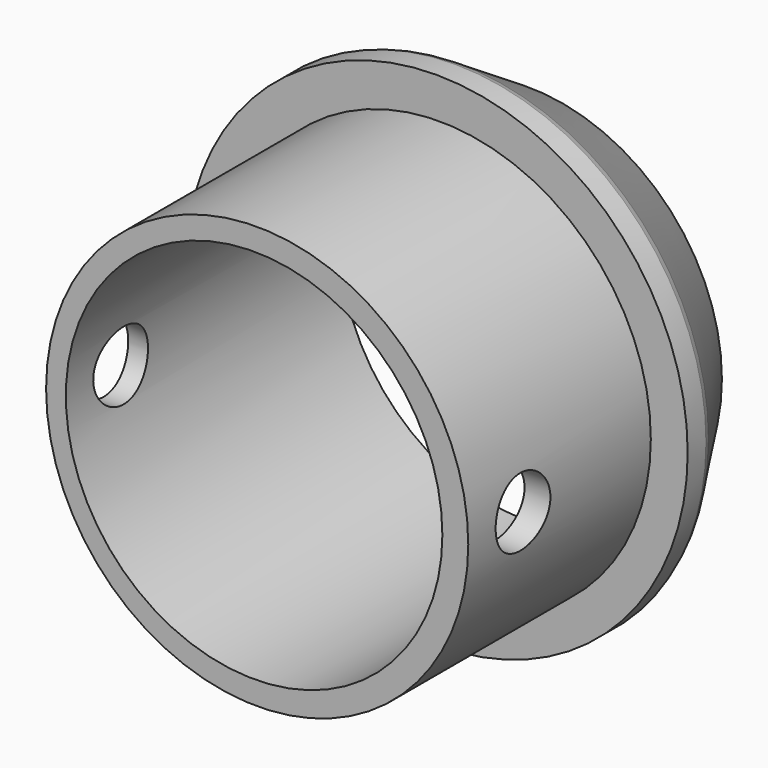
from build123d import *

# Parameters (mm, degrees)
SKETCH013_R      = 11
SKETCH013_R_2    = 8.25
PAD007_DEPTH     = 15
SKETCH014_R      = 11.25
SKETCH014_R_2    = 9.25
POCKET006_DEPTH  = 12
CHAMFER006_SIZE2 = 1.5
CHAMFER006_SIZE  = 4
SKETCH015_R      = 1.25
HOLE_DEPTH       = 25
CHAMFER008_SIZE2 = 1
CHAMFER008_SIZE  = 4
SKETCH054_R      = 1.5
POCKET021_DEPTH  = 20


with BuildPart() as part:
    # Sketch013 → Pad007 (new body)
    with BuildSketch(Plane.XZ.offset(-10)):
        with Locations((0, 15)):
            Circle(SKETCH013_R)
        with Locations((0, 15)):
            Circle(SKETCH013_R_2, mode=Mode.SUBTRACT)
    extrude(amount=PAD007_DEPTH)

    # Sketch014 → Pocket006 (cut)
    with BuildSketch(Plane.XZ.offset(7)):
        with Locations((0.134772, 15)):
            Circle(SKETCH014_R)
        with Locations((0.134772, 15)):
            Circle(SKETCH014_R_2, mode=Mode.SUBTRACT)
    extrude(amount=-POCKET006_DEPTH, mode=Mode.SUBTRACT)

    # Chamfer006
    chamfer006_edges = [part.edges().sort_by_distance(p)[0] for p in [
        (-11, 10, 15),
    ]]
    chamfer006_side = part.faces().sort_by_distance((-11, 7.5, 15))[0]
    chamfer(chamfer006_edges, length=CHAMFER006_SIZE, length2=CHAMFER006_SIZE2, reference=chamfer006_side)

    # Sketch015 → Hole (cut)
    with BuildSketch(Plane(origin=(0, 4, 5), x_dir=(1, 0, 0), z_dir=(0, 0, 1))):
        with Locations((0.028156, -7.033275)):
            Circle(SKETCH015_R)
    extrude(amount=-HOLE_DEPTH, mode=Mode.SUBTRACT)

    # Chamfer008
    chamfer008_edges = [part.edges().sort_by_distance(p)[0] for p in [
        (-9.5, 10, 15),
    ]]
    chamfer008_side = part.faces().sort_by_distance((-10.25, 8, 15))[0]
    chamfer(chamfer008_edges, length=CHAMFER008_SIZE, length2=CHAMFER008_SIZE2, reference=chamfer008_side)

    # Sketch054 → Pocket021 (cut)
    with BuildSketch(Plane.YZ.offset(10)):
        with Locations((-2, 15)):
            Circle(SKETCH054_R)
    extrude(amount=-POCKET021_DEPTH, mode=Mode.SUBTRACT)


with BuildPart() as part_1:
    # Body006 placement: moved
    add(part.part.moved(Location((0, -5, 0))))


solid = part_1.part
